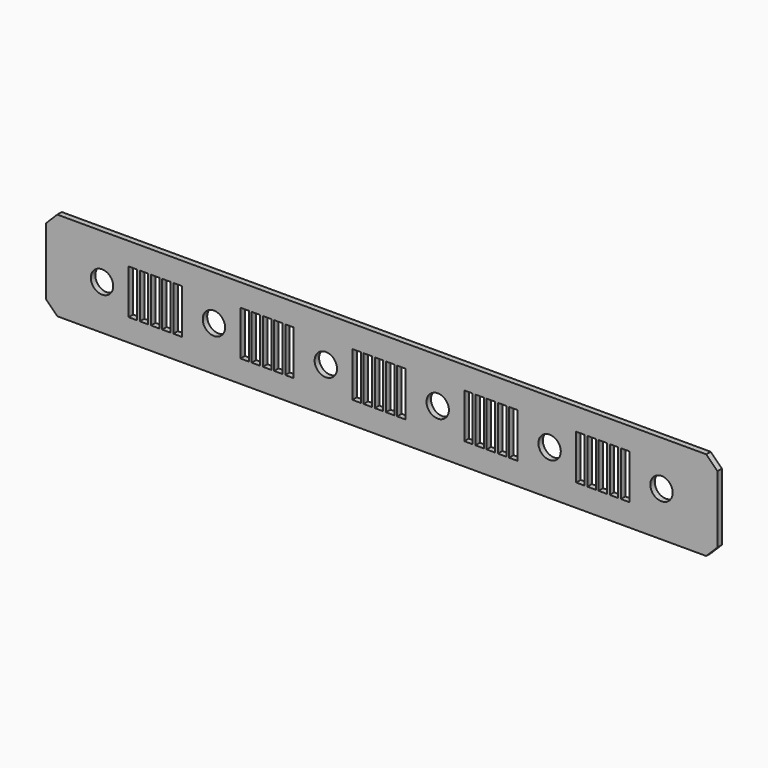
from build123d import *

# Parameters (mm, degrees)
F0_W     = 762
F0_H     = 101.6
F0_R     = 12.7
F1_DEPTH = 6.35
F2_SIZE  = 12.7
F3_W     = 9.525
F3_H     = 50.8
F4_DEPTH = 6.351


with BuildPart() as f1:
    # F0 (on Front) → F1 (new body)
    with BuildSketch(Plane.XZ):
        with Locations((381, 50.8)):
            Rectangle(F0_W, F0_H)
        with Locations((63.5, 50.8)):
            Circle(F0_R, mode=Mode.SUBTRACT)
        with Locations((190.5, 50.8)):
            Circle(F0_R, mode=Mode.SUBTRACT)
        with Locations((317.5, 50.8)):
            Circle(F0_R, mode=Mode.SUBTRACT)
        with Locations((444.5, 50.8)):
            Circle(F0_R, mode=Mode.SUBTRACT)
        with Locations((571.5, 50.8)):
            Circle(F0_R, mode=Mode.SUBTRACT)
        with Locations((698.5, 50.8)):
            Circle(F0_R, mode=Mode.SUBTRACT)
    extrude(amount=F1_DEPTH)

    # F2
    f2_edges = [f1.edges().sort_by_distance(p)[0] for p in [
        (0, -3.175, 101.6),
        (0, -3.175, 0),
        (762, -3.175, 0),
        (762, -3.175, 101.6),
    ]]
    chamfer(f2_edges, length=F2_SIZE)

    # F3 (on face) → F4 (cut, through all)
    with BuildSketch(Plane.XZ.offset(6.35)):
        with Locations((98.4377, 50.8)):
            Rectangle(F3_W, F3_H)
        with Locations((111.1377, 50.8)):
            Rectangle(F3_W, F3_H)
        with Locations((123.8377, 50.8)):
            Rectangle(F3_W, F3_H)
        with Locations((136.5377, 50.8)):
            Rectangle(F3_W, F3_H)
        with Locations((149.2377, 50.8)):
            Rectangle(F3_W, F3_H)
        with Locations((225.4377, 50.8)):
            Rectangle(F3_W, F3_H)
        with Locations((238.1377, 50.8)):
            Rectangle(F3_W, F3_H)
        with Locations((250.8377, 50.8)):
            Rectangle(F3_W, F3_H)
        with Locations((263.5377, 50.8)):
            Rectangle(F3_W, F3_H)
        with Locations((276.2377, 50.8)):
            Rectangle(F3_W, F3_H)
        with Locations((352.4377, 50.8)):
            Rectangle(F3_W, F3_H)
        with Locations((365.1377, 50.8)):
            Rectangle(F3_W, F3_H)
        with Locations((377.8377, 50.8)):
            Rectangle(F3_W, F3_H)
        with Locations((390.5377, 50.8)):
            Rectangle(F3_W, F3_H)
        with Locations((403.2377, 50.8)):
            Rectangle(F3_W, F3_H)
        with Locations((479.4377, 50.8)):
            Rectangle(F3_W, F3_H)
        with Locations((492.1377, 50.8)):
            Rectangle(F3_W, F3_H)
        with Locations((504.8377, 50.8)):
            Rectangle(F3_W, F3_H)
        with Locations((517.5377, 50.8)):
            Rectangle(F3_W, F3_H)
        with Locations((530.2377, 50.8)):
            Rectangle(F3_W, F3_H)
        with Locations((606.4377, 50.8)):
            Rectangle(F3_W, F3_H)
        with Locations((619.1377, 50.8)):
            Rectangle(F3_W, F3_H)
        with Locations((631.8377, 50.8)):
            Rectangle(F3_W, F3_H)
        with Locations((644.5377, 50.8)):
            Rectangle(F3_W, F3_H)
        with Locations((657.2377, 50.8)):
            Rectangle(F3_W, F3_H)
    extrude(amount=-F4_DEPTH, mode=Mode.SUBTRACT)


solid = f1.part
